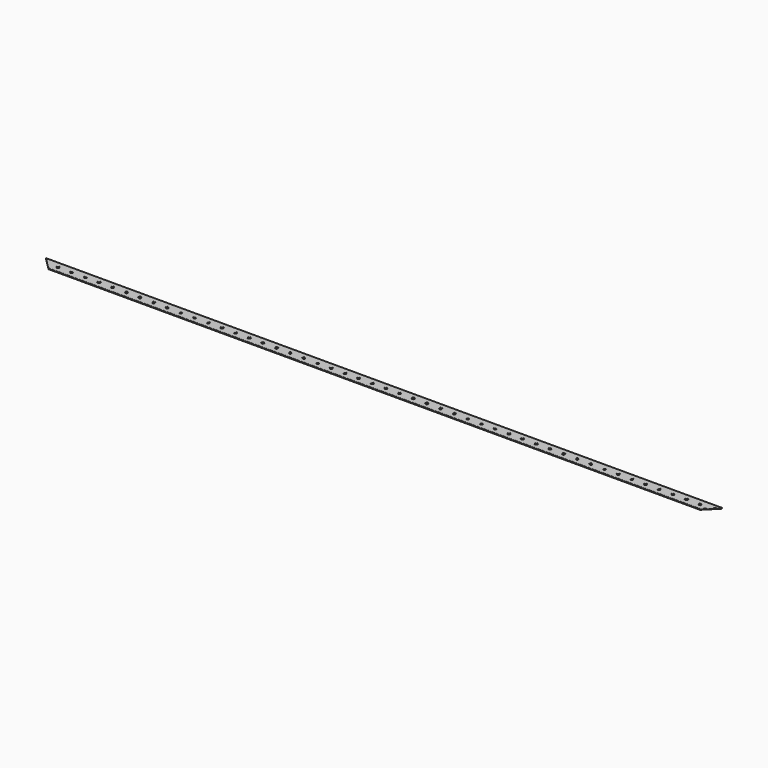
from build123d import *

# Parameters (mm, degrees)
PAD053_DEPTH            = 500
POCKET006_DEPTH         = 0.601
SKETCH066_R             = 1.05
POCKET007_DEPTH         = 0.601
BODY054_PITCH_ANGLE     = -90
BODY054_PLACEMENT_ANGLE = -90


with BuildPart() as part:
    # Sketch064 → Pad053 (new body)
    with BuildSketch(Plane.XZ.offset(-0.3)):
        Polygon((0.6, 9), (0.6, 0), (0.5, 0), (0.5, 8.9), (0.1, 8.9), (0.1, 0), (0, 0), (0, 9), align=None)
    extrude(amount=PAD053_DEPTH)

    # Sketch065 → Pocket006 (cut, through all)
    with BuildSketch(Plane.YZ):
        Polygon((-499.700007, 9.2), (-499.700007, -0.3), (-490.200007, -0.3), align=None)
        Polygon((0.3, -0.3), (-9.2, -0.3), (0.3, 9.2), align=None)
    extrude(amount=POCKET006_DEPTH, mode=Mode.SUBTRACT)

    # Sketch066 → Pocket007 (cut, through all)
    with BuildSketch(Plane(origin=(0, 0.3, -0.3), x_dir=(0, 0, -1), z_dir=(1, 0, 0))):
        with Locations((-4.75, -487.35)):
            Circle(SKETCH066_R)
        with Locations((-4.75, -477.25)):
            Circle(SKETCH066_R)
        with Locations((-4.75, -457.05)):
            Circle(SKETCH066_R)
        with Locations((-4.75, -467.15)):
            Circle(SKETCH066_R)
        with Locations((-4.75, -416.65)):
            Circle(SKETCH066_R)
        with Locations((-4.75, -426.75)):
            Circle(SKETCH066_R)
        with Locations((-4.75, -436.85)):
            Circle(SKETCH066_R)
        with Locations((-4.75, -446.95)):
            Circle(SKETCH066_R)
        with Locations((-4.75, -335.85)):
            Circle(SKETCH066_R)
        with Locations((-4.75, -345.95)):
            Circle(SKETCH066_R)
        with Locations((-4.75, -356.05)):
            Circle(SKETCH066_R)
        with Locations((-4.75, -366.15)):
            Circle(SKETCH066_R)
        with Locations((-4.75, -376.25)):
            Circle(SKETCH066_R)
        with Locations((-4.75, -386.35)):
            Circle(SKETCH066_R)
        with Locations((-4.75, -396.45)):
            Circle(SKETCH066_R)
        with Locations((-4.75, -406.55)):
            Circle(SKETCH066_R)
        with Locations((-4.75, -174.25)):
            Circle(SKETCH066_R)
        with Locations((-4.75, -184.35)):
            Circle(SKETCH066_R)
        with Locations((-4.75, -194.45)):
            Circle(SKETCH066_R)
        with Locations((-4.75, -204.55)):
            Circle(SKETCH066_R)
        with Locations((-4.75, -214.65)):
            Circle(SKETCH066_R)
        with Locations((-4.75, -224.75)):
            Circle(SKETCH066_R)
        with Locations((-4.75, -234.85)):
            Circle(SKETCH066_R)
        with Locations((-4.75, -244.95)):
            Circle(SKETCH066_R)
        with Locations((-4.75, -255.05)):
            Circle(SKETCH066_R)
        with Locations((-4.75, -265.15)):
            Circle(SKETCH066_R)
        with Locations((-4.75, -275.25)):
            Circle(SKETCH066_R)
        with Locations((-4.75, -285.35)):
            Circle(SKETCH066_R)
        with Locations((-4.75, -295.45)):
            Circle(SKETCH066_R)
        with Locations((-4.75, -305.55)):
            Circle(SKETCH066_R)
        with Locations((-4.75, -315.65)):
            Circle(SKETCH066_R)
        with Locations((-4.75, -325.75)):
            Circle(SKETCH066_R)
        with Locations((-4.75, -63.15)):
            Circle(SKETCH066_R)
        with Locations((-4.75, -73.25)):
            Circle(SKETCH066_R)
        with Locations((-4.75, -83.35)):
            Circle(SKETCH066_R)
        with Locations((-4.75, -93.45)):
            Circle(SKETCH066_R)
        with Locations((-4.75, -103.55)):
            Circle(SKETCH066_R)
        with Locations((-4.75, -113.65)):
            Circle(SKETCH066_R)
        with Locations((-4.75, -123.75)):
            Circle(SKETCH066_R)
        with Locations((-4.75, -133.85)):
            Circle(SKETCH066_R)
        with Locations((-4.75, -143.95)):
            Circle(SKETCH066_R)
        with Locations((-4.75, -154.05)):
            Circle(SKETCH066_R)
        with Locations((-4.75, -164.15)):
            Circle(SKETCH066_R)
        with Locations((-4.75, -12.65)):
            Circle(SKETCH066_R)
        with Locations((-4.75, -22.75)):
            Circle(SKETCH066_R)
        with Locations((-4.75, -32.85)):
            Circle(SKETCH066_R)
        with Locations((-4.75, -42.95)):
            Circle(SKETCH066_R)
        with Locations((-4.75, -53.05)):
            Circle(SKETCH066_R)
    extrude(amount=POCKET007_DEPTH, mode=Mode.SUBTRACT)


with BuildPart() as part_1:
    # Body054 pitch: moved
    add(part.part.rotate(Axis((0, 0, 0), (0, 1, 0)), BODY054_PITCH_ANGLE))


with BuildPart() as part_2:
    # Body054 placement: moved
    add(part_1.part.moved(Location((504.246315, -15.121231, 0.2))).rotate(Axis((504.246315, -15.121231, 0.2), (0, 0, 1)), BODY054_PLACEMENT_ANGLE))


solid = part_2.part
